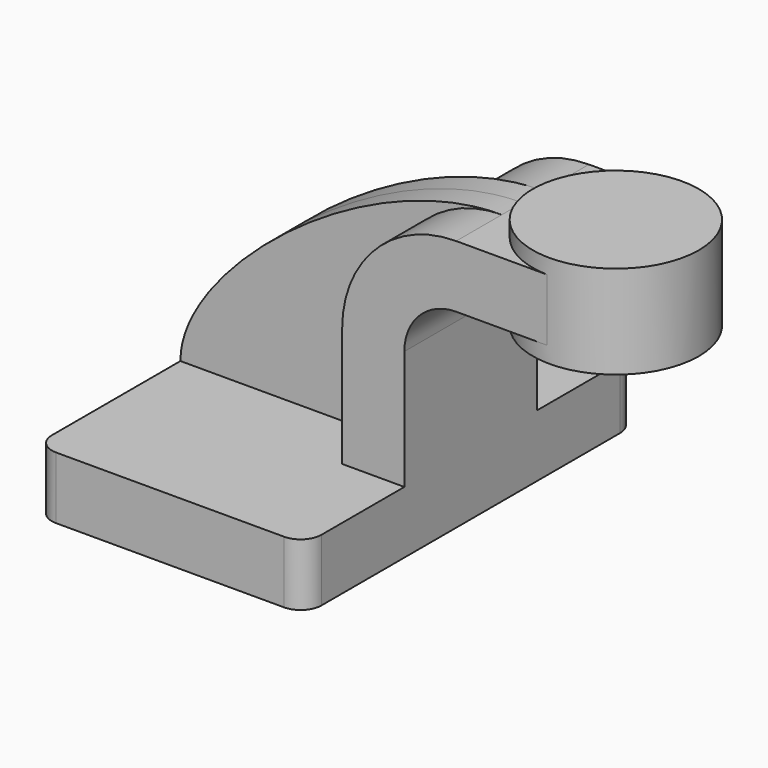
from build123d import *

# Parameters (mm, degrees)
F1_DEPTH = 63.5
F0_W     = 25.3889229774
F0_H     = 19.05
F2_DEPTH = 25.4
F3_DEPTH = 7.9375
F5_R     = 6.35


with BuildPart() as f1:
    # F0 (on Front) → F1 (new body, symmetric)
    with BuildSketch(Plane.XZ):
        Polygon((41.275, -9.525), (41.275, 9.525), (22.225, 9.525), (-41.275, 9.525), (-41.275, -9.525), align=None)
    extrude(amount=F1_DEPTH, both=True)

    # F0 (on Front) → F2 (join, symmetric)
    with BuildSketch(Plane.XZ):
        with Locations((73.0194614887, 71.4502)):
            Rectangle(F0_W, F0_H)
        with BuildLine():
            Line((22.225, 9.525), (41.275, 9.525))
            Line((41.275, 9.525), (41.275, 46.0502))
            ThreePointArc((41.275, 46.0502), (45.9246798487, 57.2755201513), (57.15, 61.9252))
            Line((57.15, 61.9252), (60.325, 61.9252))
            Line((60.325, 61.9252), (60.325, 80.9752))
            Line((60.325, 80.9752), (57.15, 80.9752))
            ThreePointArc((57.15, 80.9752), (32.4542956671, 70.7459043329), (22.225, 46.0502))
            Line((22.225, 46.0502), (22.225, 9.525))
        make_face()
    extrude(amount=F2_DEPTH, both=True)

    # F0 (on Front) → F3 (join, symmetric)
    with BuildSketch(Plane.XZ):
        with BuildLine():
            Line((-41.275, 9.525), (22.225, 9.525))
            Line((22.225, 9.525), (22.225, 46.0502))
            ThreePointArc((22.225, 46.0502), (32.4542956671, 70.7459043329), (57.15, 80.9752))
            add(Edge.make_bspline(
                [(-41.275, 9.525), (-41.4512120187, 35.7986353338), (14.2870573327, 81.0561999679), (57.15, 80.9752)],
                knots=[0, 0, 0, 0, 121.6248811101, 121.6248811101, 121.6248811101, 121.6248811101], degree=3))
        make_face()
    extrude(amount=F3_DEPTH, both=True)

    # F0 (on Front) → F4 (revolve)
    with BuildSketch(Plane.XZ):
        Polygon((85.7139229774, 80.9752), (85.7139229774, 61.9252), (85.7139229774, 57.15), (111.125, 57.15), (111.125, 85.725), (85.7139229774, 85.725), align=None)
    revolve(axis=Axis((85.7139229774, 0, 71.4375), (0, 0, -1)))

    # F5
    f5_edges = [f1.edges().sort_by_distance(p)[0] for p in [
        (41.275, -63.5, 0),
        (-41.275, -63.5, 0),
        (-41.275, 63.5, 0),
        (41.275, 63.5, 0),
    ]]
    fillet(f5_edges, radius=F5_R)


solid = f1.part
